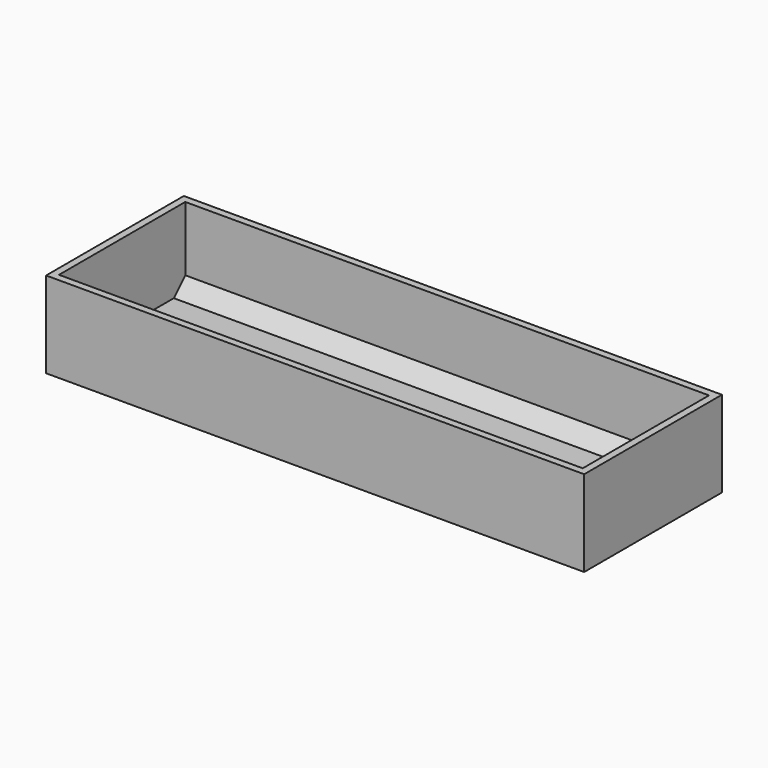
from build123d import *

# Parameters (mm, degrees)
F0_W     = 37.5
F0_H     = 12
F1_DEPTH = 6
F2_W     = 36.5
F2_H     = 11
F3_DEPTH = 5.5
F4_SIZE  = 1


with BuildPart() as f1:
    # F0 (on Top) → F1 (new body)
    with BuildSketch(Plane.XY):
        with Locations((18.75, 6)):
            Rectangle(F0_W, F0_H)
    extrude(amount=F1_DEPTH)

    # F2 (on face) → F3 (cut)
    with BuildSketch(Plane.XY.offset(6)):
        with Locations((18.75, 6)):
            Rectangle(F2_W, F2_H)
    extrude(amount=-F3_DEPTH, mode=Mode.SUBTRACT)

    # F4
    f4_edges = [f1.edges().sort_by_distance(p)[0] for p in [
        (18.75, 11.5, 0.5),
        (18.75, 0.5, 0.5),
    ]]
    chamfer(f4_edges, length=F4_SIZE)


solid = f1.part
